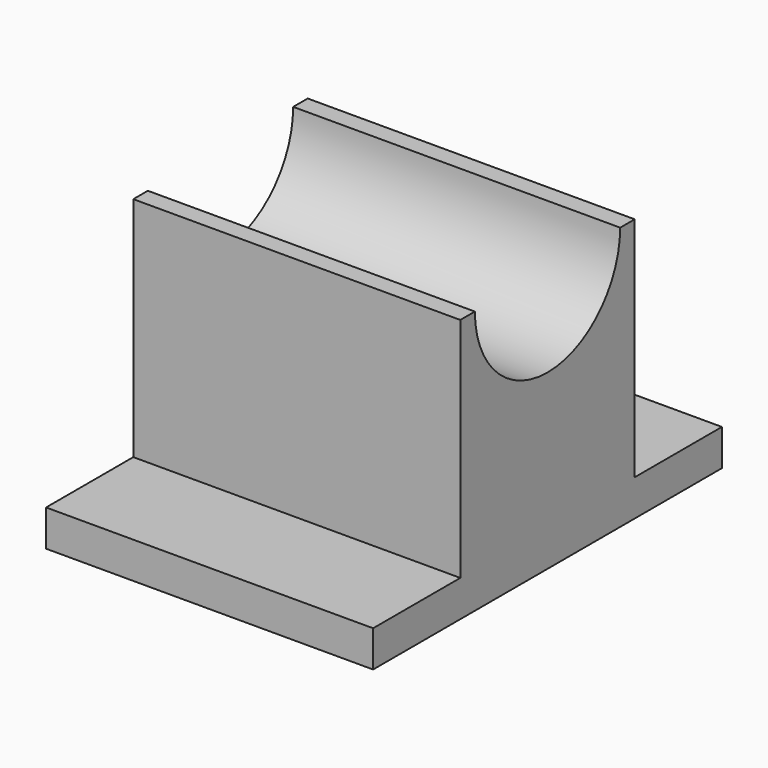
from build123d import *

# Parameters (mm, degrees)
F1_DEPTH = 114.3
F3_R     = 31.75
F4_DEPTH = 114.301


with BuildPart() as f1:
    # F0 (on Right) → F1 (new body)
    with BuildSketch(Plane.YZ):
        Polygon((0, 12.7), (0, 0), (152.4, 0), (152.4, 12.7), (114.3, 12.7), (114.3, 92.075), (38.1, 92.075), (38.1, 12.7), align=None)
    extrude(amount=F1_DEPTH)

    # F3 (on face) → F4 (cut, through all)
    with BuildSketch(Plane.YZ.offset(114.3)):
        with Locations((76.208189, 92.173174)):
            Circle(F3_R)
    extrude(amount=-F4_DEPTH, mode=Mode.SUBTRACT)


solid = f1.part
